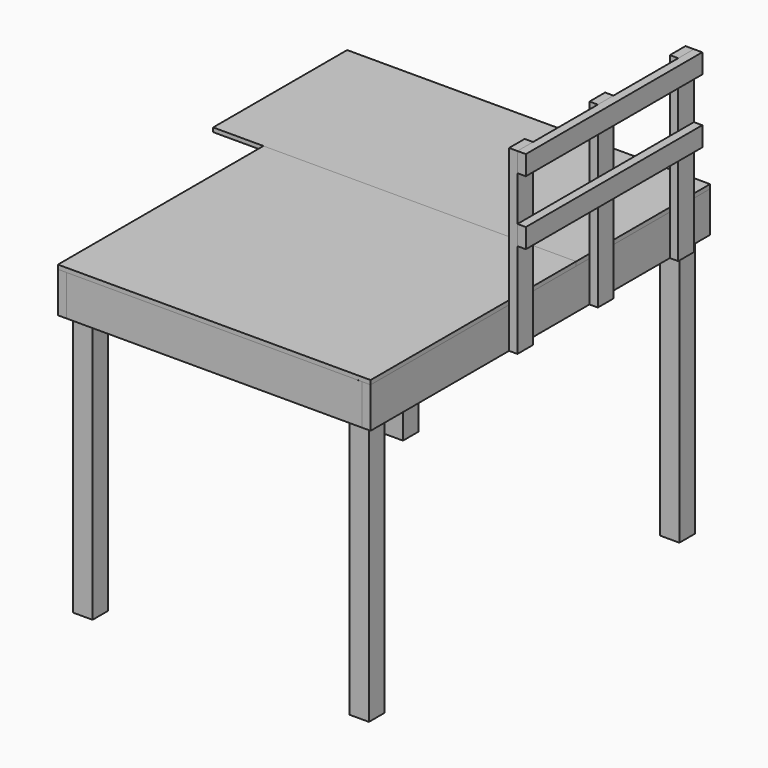
from build123d import *

# Parameters (mm, degrees)
F0_W      = 38.1
F0_H      = 184.15
F1_DEPTH  = 1930.4
F2_W      = 38.1
F2_H      = 184.15
F3_DEPTH  = 1346.2
F4_W      = 38.1
F4_H      = 184.15
F5_DEPTH  = 1930.4
F6_W      = 38.1
F6_H      = 184.15
F7_DEPTH  = 1346.2
F8_W      = 38.1
F8_H      = 88.9
F9_DEPTH  = 1346.2
F10_W     = 1651
F10_H     = 762
F11_DEPTH = 19.05
F12_W     = 1422.4
F12_H     = 1168.4
F13_DEPTH = 19.05
F14_W     = 88.9
F14_H     = 88.9
F15_DEPTH = 1377.95
F16_W     = 38.1
F16_H     = 88.9
F17_DEPTH = 812.8
F18_W     = 38.1
F18_H     = 88.9
F19_DEPTH = 1003.3


with BuildPart() as f1:
    # F0 (on Front) → F1 (new body)
    with BuildSketch(Plane.XZ):
        with Locations((19.05, 92.075)):
            Rectangle(F0_W, F0_H)
    extrude(amount=F1_DEPTH)


with BuildPart() as f3:
    # F2 (on face) → F3 (new body)
    with BuildSketch(Plane.YZ.offset(38.1)):
        with Locations((-1911.35, 92.075)):
            Rectangle(F2_W, F2_H)
    extrude(amount=F3_DEPTH)


with BuildPart() as f5:
    # F4 (on face) → F5 (new body, through all)
    with BuildSketch(Plane.XZ.offset(1930.4)):
        with Locations((1403.35, 92.075)):
            Rectangle(F4_W, F4_H)
    extrude(amount=-F5_DEPTH)


with BuildPart() as f7:
    # F6 (on face) → F7 (new body, through all)
    with BuildSketch(Plane.YZ.offset(38.1)):
        with Locations((-19.05, 92.075)):
            Rectangle(F6_W, F6_H)
    extrude(amount=F7_DEPTH)


with BuildPart() as f9:
    # F8 (on face) → F9 (new body, through all)
    with BuildSketch(Plane(origin=(1384.3, 0, 0), x_dir=(0, -1, 0), z_dir=(-1, 0, 0))):
        with Locations((749.3, 139.7)):
            Rectangle(F8_W, F8_H)
        with Locations((793.75, 139.7)):
            Rectangle(F8_W, F8_H)
        with Locations((384.175, 139.7)):
            Rectangle(F8_W, F8_H)
        with Locations((1166.283333, 139.7)):
            Rectangle(F8_W, F8_H)
        with Locations((1538.816667, 139.7)):
            Rectangle(F8_W, F8_H)
    extrude(amount=F9_DEPTH)


with BuildPart() as f11:
    # F10 (on face) → F11 (new body)
    with BuildSketch(Plane.XY.offset(184.15)):
        with Locations((596.9, -381)):
            Rectangle(F10_W, F10_H)
    extrude(amount=F11_DEPTH)


with BuildPart() as f13:
    # F12 (on face) → F13 (new body, through all)
    with BuildSketch(Plane.XY.offset(184.15)):
        with Locations((711.2, -1346.2)):
            Rectangle(F12_W, F12_H)
    extrude(amount=F13_DEPTH)


with BuildPart() as f15:
    # F14 (on face) → F15 (new body)
    with BuildSketch(Plane(origin=(0, 0, 184.15), x_dir=(1, 0, 0), z_dir=(0, 0, -1))):
        with Locations((1339.85, 1847.85)):
            Rectangle(F14_W, F14_H)
        with Locations((82.55, 1847.85)):
            Rectangle(F14_W, F14_H)
        with Locations((82.55, 82.55)):
            Rectangle(F14_W, F14_H)
        with Locations((1339.85, 82.55)):
            Rectangle(F14_W, F14_H)
    extrude(amount=F15_DEPTH)


with BuildPart() as f17:
    # F16 (on face) → F17 (new body)
    with BuildSketch(Plane(origin=(0, 0, 0), x_dir=(1, 0, 0), z_dir=(0, 0, -1))):
        with Locations((1441.45, 1098.55)):
            Rectangle(F16_W, F16_H)
        with Locations((1441.45, 184.15)):
            Rectangle(F16_W, F16_H)
        with Locations((1441.45, 641.35)):
            Rectangle(F16_W, F16_H)
    extrude(amount=-F17_DEPTH)


with BuildPart() as f19:
    # F18 (on face) → F19 (new body, through all)
    with BuildSketch(Plane.XZ.offset(1143)):
        with Locations((1479.55, 768.35)):
            Rectangle(F18_W, F18_H)
        with Locations((1479.55, 476.25)):
            Rectangle(F18_W, F18_H)
    extrude(amount=-F19_DEPTH)


solid = Compound([f1.part, f3.part, f5.part, f7.part, f9.part, f11.part, f13.part, f15.part, f17.part, f19.part])
